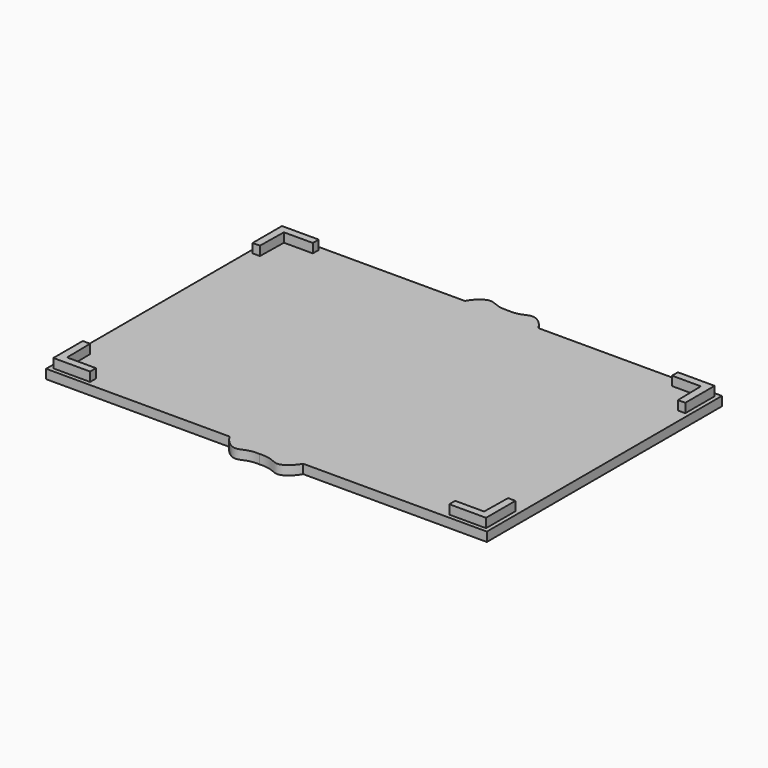
from build123d import *

# Parameters (mm, degrees)
F1_DEPTH = 3.175
F2_DEPTH = 6.35


with BuildPart() as f1:
    # F0 (on Top) → F1 (new body)
    with BuildSketch(Plane.XY):
        Polygon((-12.7, 50.8901555927), (-76.2, 50.8901555927), (-76.2, -50.7098444073), (-12.7, -50.7098444073), (12.7, -50.7098444073), (76.2, -50.7098444073), (76.2, 50.8901555927), (12.7, 50.8901555927), align=None)
        Polygon((-62.103, -49.3128444073), (-74.803, -49.3128444073), (-74.803, -36.6128444073), (-72.263, -36.6128444073), (-72.0955446652, -46.7728444073), (-62.103, -46.7728444073), align=None, mode=Mode.SUBTRACT)
        Polygon((74.803, -36.6128444073), (74.803, -49.3128444073), (62.103, -49.3128444073), (62.103, -46.7728444073), (72.0955446652, -46.7728444073), (72.263, -36.6128444073), align=None, mode=Mode.SUBTRACT)
        Polygon((-74.803, 36.7931555927), (-74.803, 49.4931555927), (-62.103, 49.4931555927), (-62.103, 46.9531555927), (-72.0955446652, 46.9531555927), (-72.263, 36.7931555927), align=None, mode=Mode.SUBTRACT)
        Polygon((72.263, 36.7931555927), (72.0955446652, 46.9531555927), (62.103, 46.9531555927), (62.103, 49.4931555927), (74.803, 49.4931555927), (74.803, 36.7931555927), align=None, mode=Mode.SUBTRACT)
        with BuildLine():
            Line((12.7, -50.7098444073), (-12.7, -50.7098444073))
            add(Edge.make_bspline(
                [(-12.7, -50.7098444073), (-11.2112833649, -53.3082869999), (-6.7596861206, -56.8414869783), (-4.2214039713, -53.3183033941), (0, -53.6113831578)],
                knots=[0, 0, 0, 0, 0.4913352934, 1, 1, 1, 1], degree=3))
            add(Edge.make_bspline(
                [(12.7, -50.7098444073), (11.2112833649, -53.3082869999), (6.7596861206, -56.8414869783), (4.2214039713, -53.3183033941), (0, -53.6113831578)],
                knots=[0, 0, 0, 0, 0.4913352934, 1, 1, 1, 1], degree=3))
        make_face()
        with BuildLine():
            add(Edge.make_bspline(
                [(-12.7, 50.8901555927), (-11.2112833649, 53.4885981853), (-6.7596861206, 57.0217981636), (-4.2214039713, 53.4986145794), (0, 53.7916943431)],
                knots=[0, 0, 0, 0, 0.4913352934, 1, 1, 1, 1], degree=3))
            Line((-12.7, 50.8901555927), (12.7, 50.8901555927))
            add(Edge.make_bspline(
                [(12.7, 50.8901555927), (11.2112833649, 53.4885981853), (6.7596861206, 57.0217981636), (4.2214039713, 53.4986145794), (0, 53.7916943431)],
                knots=[0, 0, 0, 0, 0.4913352934, 1, 1, 1, 1], degree=3))
        make_face()
    extrude(amount=F1_DEPTH)

    # F0 (on Top) → F2 (join)
    with BuildSketch(Plane.XY):
        Polygon((-74.803, -36.6128444073), (-74.803, -49.3128444073), (-62.103, -49.3128444073), (-62.103, -46.7728444073), (-72.0955446652, -46.7728444073), (-72.263, -36.6128444073), align=None)
        Polygon((-62.103, 49.4931555927), (-74.803, 49.4931555927), (-74.803, 36.7931555927), (-72.263, 36.7931555927), (-72.0955446652, 46.9531555927), (-62.103, 46.9531555927), align=None)
        Polygon((62.103, -49.3128444073), (74.803, -49.3128444073), (74.803, -36.6128444073), (72.263, -36.6128444073), (72.0955446652, -46.7728444073), (62.103, -46.7728444073), align=None)
        Polygon((62.103, 46.9531555927), (72.0955446652, 46.9531555927), (72.263, 36.7931555927), (74.803, 36.7931555927), (74.803, 49.4931555927), (62.103, 49.4931555927), align=None)
    extrude(amount=F2_DEPTH)


solid = f1.part
